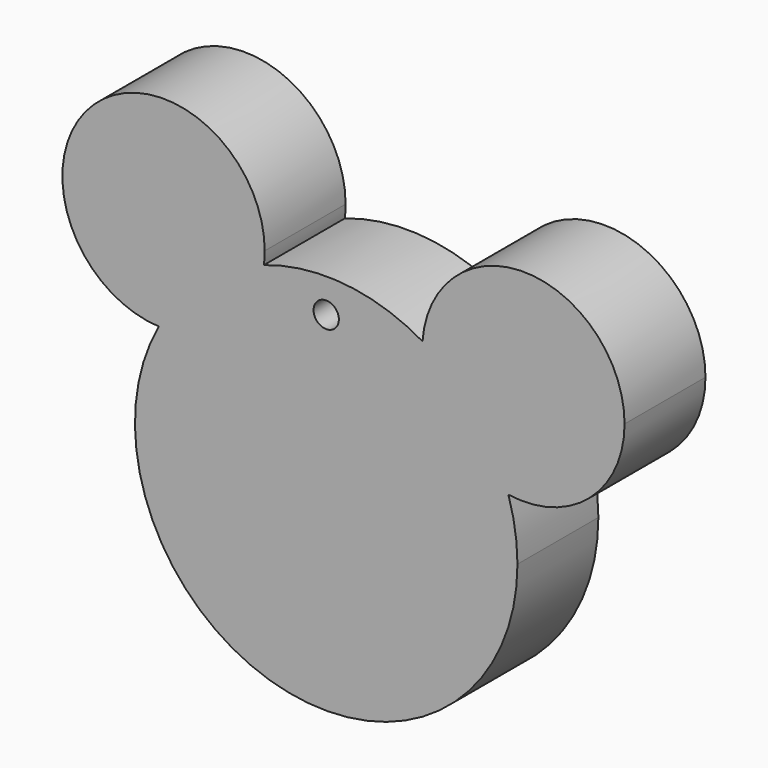
from build123d import *

# Parameters (mm, degrees)
F1_DEPTH = 25.4
F2_R     = 3.175
F3_DEPTH = 25.401


with BuildPart() as f1:
    # F0 (on Front) → F1 (new body)
    with BuildSketch(Plane.XZ):
        with BuildLine():
            ThreePointArc((-42.0280144037, 23.2435686413), (-12.0026497363, -46.503267382), (48.0272576554, 0))
            ThreePointArc((48.0272576554, 0), (47.4533416006, 7.4025569116), (45.7453097989, 14.6281956952))
            ThreePointArc((45.7453097989, 14.6281956952), (29.7138120449, 23.8474185974), (24.1832883108, 41.4944097966))
            ThreePointArc((24.1832883108, 41.4944097966), (4.69155987, 47.7975600202), (-15.6537330675, 45.4046046007))
            ThreePointArc((-15.6537330675, 45.4046046007), (-24.5099236809, 29.1697384486), (-42.0280144037, 23.2435686413))
        make_face()
        with BuildLine():
            ThreePointArc((24.1832883108, 41.4944097966), (37.4559818111, 30.06105295), (45.7453097989, 14.6281956952))
            ThreePointArc((45.7453097989, 14.6281956952), (66.0941721016, 20.4958425849), (74.9230200748, 39.7456976624))
            ThreePointArc((74.9230200748, 39.7456976624), (50.3978952643, 65.1306261319), (24.1832883108, 41.4944097966))
        make_face()
        with BuildLine():
            ThreePointArc((24.1832883108, 41.4944097966), (29.7138120449, 23.8474185974), (45.7453097989, 14.6281956952))
            ThreePointArc((45.7453097989, 14.6281956952), (37.4559818111, 30.06105295), (24.1832883108, 41.4944097966))
        make_face()
        with BuildLine():
            ThreePointArc((-15.6537330675, 45.4046046007), (-30.8961789956, 36.7701455173), (-42.0280144037, 23.2435686413))
            ThreePointArc((-42.0280144037, 23.2435686413), (-24.5099236809, 29.1697384486), (-15.6537330675, 45.4046046007))
        make_face()
        with BuildLine():
            ThreePointArc((-15.4498728014, 48.6162307476), (-58.3889036085, 66.9885577192), (-42.0280144037, 23.2435686413))
            ThreePointArc((-42.0280144037, 23.2435686413), (-30.8961789956, 36.7701455173), (-15.6537330675, 45.4046046007))
            ThreePointArc((-15.6537330675, 45.4046046007), (-15.5008891015, 47.0071858822), (-15.4498728014, 48.6162307476))
        make_face()
    extrude(amount=F1_DEPTH)

    # F2 (on face) → F3 (cut, through all)
    with BuildSketch(Plane.XZ.offset(25.4)):
        with Locations((0, 39.5081154678)):
            Circle(F2_R)
    extrude(amount=-F3_DEPTH, mode=Mode.SUBTRACT)


solid = f1.part
